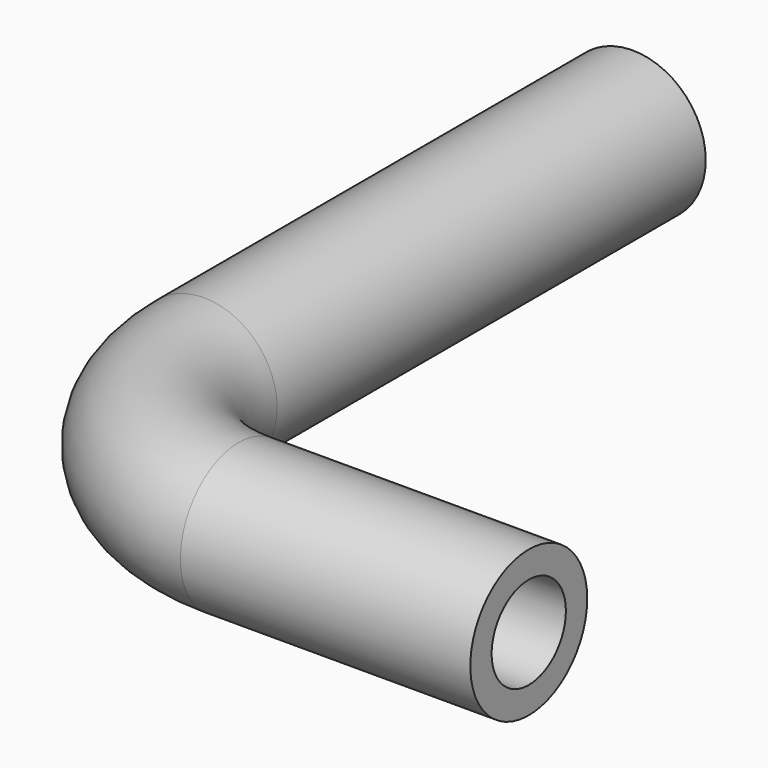
from build123d import *

# Parameters (mm, degrees)
F0_R     = 8.001
F0_R_2   = 5.08
F1_DEPTH = 58.674
F2_R     = 8.001
F2_R_2   = 5.08
F3_ANGLE = -90
F4_R     = 8.001
F4_R_2   = 5.08
F5_DEPTH = 31.75


with BuildPart() as f1:
    # F0 (on Front) → F1 (new body)
    with BuildSketch(Plane.XZ):
        Circle(F0_R)
        Circle(F0_R_2, mode=Mode.SUBTRACT)
    extrude(amount=F1_DEPTH)

    # F2 (on face) → F3 (revolve)
    with BuildSketch(Plane.XZ.offset(58.674)):
        Circle(F2_R)
        Circle(F2_R_2, mode=Mode.SUBTRACT)
    revolve(axis=Axis((19.05, -58.674, -0.586418), (0, 0, -1)), revolution_arc=F3_ANGLE)

    # F4 (on face) → F5 (join)
    with BuildSketch(Plane.YZ.offset(19.05)):
        with Locations((-77.724, 0)):
            Circle(F4_R)
        with Locations((-77.724, 0)):
            Circle(F4_R_2, mode=Mode.SUBTRACT)
    extrude(amount=F5_DEPTH)


solid = f1.part
